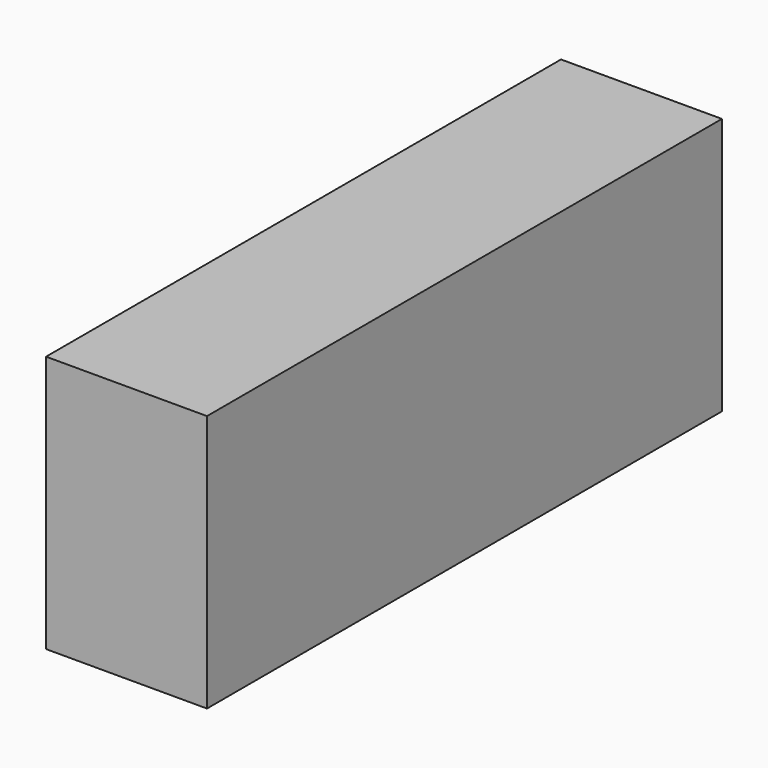
from build123d import *

# Parameters (mm, degrees)
BOX_W     = 5
BOX_H     = 20
BOX_DEPTH = 8


with BuildPart() as part:
    # Box → Box (new body)
    with BuildSketch(Plane.XY):
        with Locations((2.5, 10)):
            Rectangle(BOX_W, BOX_H)
    extrude(amount=BOX_DEPTH)


solid = part.part
